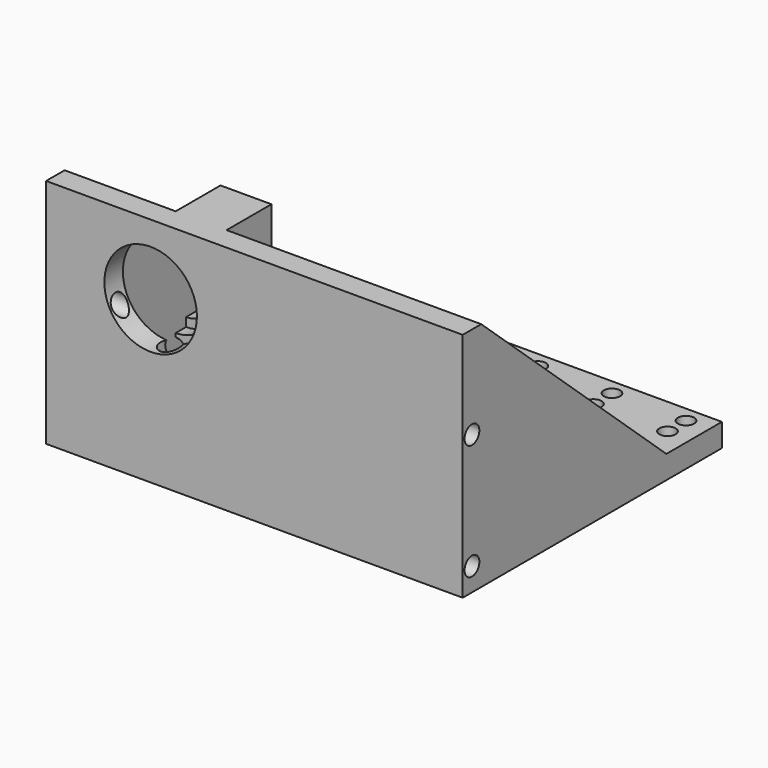
from build123d import *

# Parameters (mm, degrees)
F0_W      = 90
F0_H      = 70
F0_R      = 1.7
F0_R_2    = 1.75
F1_DEPTH  = 5
F2_W      = 90
F2_H      = 5
F3_DEPTH  = 45
F4_W      = 11
F4_H      = 45
F5_DEPTH  = 12.1
F6_R      = 6.25
F7_DEPTH  = 25
F8_R      = 8.15
F9_DEPTH  = 5
F10_R     = 10
F11_DEPTH = 5
F12_R     = 8.15
F13_DEPTH = 2.8
F14_R     = 1.6
F14_R_2   = 11.25
F15_DEPTH = 25
F17_DEPTH = 4
F19_DEPTH = 4
F20_R     = 4
F21_DEPTH = 5
F22_R     = 2
F23_DEPTH = 20
F24_SIZE  = 1
F26_R     = 2.25
F28_R     = 2
F29_DEPTH = 25


with BuildPart() as f1:
    # F0 (on Top) → F1 (new body)
    with BuildSketch(Plane.XY):
        with Locations((45, 35)):
            Rectangle(F0_W, F0_H)
        with Locations((35, 25)):
            Circle(F0_R, mode=Mode.SUBTRACT)
        with Locations((55, 25)):
            Circle(F0_R, mode=Mode.SUBTRACT)
        with Locations((35, 45)):
            Circle(F0_R, mode=Mode.SUBTRACT)
        with Locations((5, 61.554949)):
            Circle(F0_R_2, mode=Mode.SUBTRACT)
        with Locations((5, 66.554949)):
            Circle(F0_R_2, mode=Mode.SUBTRACT)
        with Locations((21, 61.554949)):
            Circle(F0_R_2, mode=Mode.SUBTRACT)
        with Locations((21, 66.554949)):
            Circle(F0_R_2, mode=Mode.SUBTRACT)
        with Locations((37, 61.554949)):
            Circle(F0_R_2, mode=Mode.SUBTRACT)
        with Locations((37, 66.554949)):
            Circle(F0_R_2, mode=Mode.SUBTRACT)
        with Locations((55, 45)):
            Circle(F0_R, mode=Mode.SUBTRACT)
        with Locations((53, 61.554949)):
            Circle(F0_R_2, mode=Mode.SUBTRACT)
        with Locations((53, 66.554949)):
            Circle(F0_R_2, mode=Mode.SUBTRACT)
        with Locations((69, 61.554949)):
            Circle(F0_R_2, mode=Mode.SUBTRACT)
        with Locations((69, 66.554949)):
            Circle(F0_R_2, mode=Mode.SUBTRACT)
        with Locations((85, 61.554949)):
            Circle(F0_R_2, mode=Mode.SUBTRACT)
        with Locations((85, 66.554949)):
            Circle(F0_R_2, mode=Mode.SUBTRACT)
    extrude(amount=F1_DEPTH)

    # F2 (on face) → F3 (join)
    with BuildSketch(Plane.XY.offset(5)):
        with Locations((45, 2.5)):
            Rectangle(F2_W, F2_H)
    extrude(amount=F3_DEPTH)

    # F4 (on face) → F5 (join)
    with BuildSketch(Plane(origin=(0, 5, 0), x_dir=(-1, 0, 0), z_dir=(0, 1, 0))):
        with Locations((-29.5, 27.5)):
            Rectangle(F4_W, F4_H)
    extrude(amount=F5_DEPTH)

    # F6 (on face) → F7 (cut)
    with BuildSketch(Plane(origin=(0, 17.1, 0), x_dir=(-1, 0, 0), z_dir=(0, 1, 0))):
        with Locations((-24, 35)):
            Circle(F6_R)
    extrude(amount=-F7_DEPTH, mode=Mode.SUBTRACT)

    # F8 (on face) → F9 (cut)
    with BuildSketch(Plane(origin=(0, 17.1, 0), x_dir=(-1, 0, 0), z_dir=(0, 1, 0))):
        with Locations((-24, 35)):
            Circle(F8_R)
    extrude(amount=-F9_DEPTH, mode=Mode.SUBTRACT)

    # F10 (on face) → F11 (cut)
    with BuildSketch(Plane.XZ):
        with Locations((22.587966, 34.833703)):
            Circle(F10_R)
    extrude(amount=-F11_DEPTH, mode=Mode.SUBTRACT)

    # F12 (on face) → F13 (cut)
    with BuildSketch(Plane.XZ.offset(-5)):
        with Locations((24, 35)):
            Circle(F12_R)
    extrude(amount=-F13_DEPTH, mode=Mode.SUBTRACT)

    # F14 (on face) → F15 (cut)
    with BuildSketch(Plane(origin=(24, 0, 0), x_dir=(0, -1, 0), z_dir=(-1, 0, 0))):
        with Locations((-10.35, 44.5)):
            Circle(F14_R)
        with Locations((-10.35, 13)):
            Circle(F14_R)
        with Locations((-26.1, 28.75)):
            Circle(F14_R_2)
    extrude(amount=-F15_DEPTH, mode=Mode.SUBTRACT)

    # F16 (on face) → F17 (join)
    with BuildSketch(Plane(origin=(0, 0, 0), x_dir=(0, -1, 0), z_dir=(-1, 0, 0))):
        Polygon((0, 50), (-5, 50), (-55, 5), (-55, 0), (0, 0), align=None)
    extrude(amount=-F17_DEPTH)

    # F18 (on face) → F19 (join)
    with BuildSketch(Plane.YZ.offset(90)):
        Polygon((55, 5), (5, 50), (0, 50), (0, 0), (55, 0), align=None)
    extrude(amount=-F19_DEPTH)

    # F20 (on face) → F21 (cut)
    with BuildSketch(Plane(origin=(0, 0, 0), x_dir=(0, -1, 0), z_dir=(-1, 0, 0))):
        with Locations((-10.391034, 44.5)):
            Circle(F20_R)
        with Locations((-10.391034, 13)):
            Circle(F20_R)
    extrude(amount=-F21_DEPTH, mode=Mode.SUBTRACT)

    # F22 (on face) → F23 (cut)
    with BuildSketch(Plane(origin=(0, 0, 0), x_dir=(0, -1, 0), z_dir=(-1, 0, 0))):
        with Locations((-2.5, 5)):
            Circle(F22_R)
        with Locations((-2.5, 30)):
            Circle(F22_R)
    extrude(amount=-F23_DEPTH, mode=Mode.SUBTRACT)

    # F24
    f24_edges = [f1.edges().sort_by_distance(p)[0] for p in [
        (33.3, 45, 5),
        (53.3, 45, 5),
        (53.3, 25, 5),
        (33.3, 25, 5),
    ]]
    chamfer(f24_edges, length=F24_SIZE)

    # F27: sweep along a path in F25
    with BuildLine(Plane(origin=(24, 0, 0), x_dir=(0, -1, 0), z_dir=(-1, 0, 0))) as f27_path:
        Line((1.5, 28.5), (-22.1, 8.5))
    # F26 (on face) → F27 (sweep, cut)
    with BuildSketch(Plane.XZ):
        with Locations((23.989582, 28.05)):
            Circle(F26_R)
    sweep(path=f27_path.line, mode=Mode.SUBTRACT)

    # F28 (on face) → F29 (cut)
    with BuildSketch(Plane.YZ.offset(90)):
        with Locations((2.5, 5)):
            Circle(F28_R)
        with Locations((2.5, 30)):
            Circle(F28_R)
    extrude(amount=-F29_DEPTH, mode=Mode.SUBTRACT)


solid = f1.part
